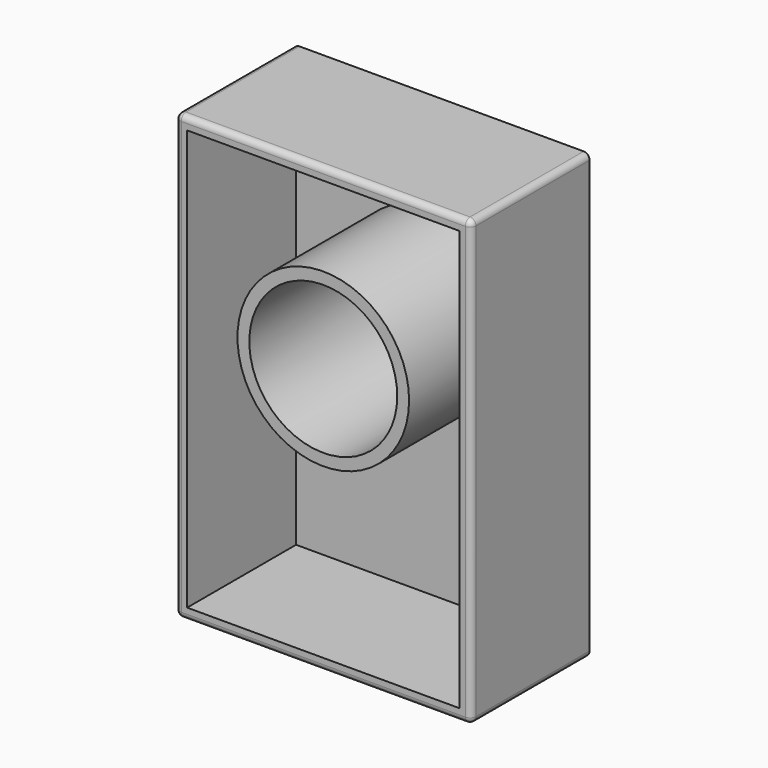
from build123d import *

# Parameters (mm, degrees)
F0_W     = 254
F0_H     = 381
F1_DEPTH = 127
F2_R     = 63.5
F3_DEPTH = 127.001
F4_T     = -10.16
F5_R     = 5.08


with BuildPart() as f1:
    # F0 (on Front) → F1 (new body)
    with BuildSketch(Plane.XZ):
        Rectangle(F0_W, F0_H)
    extrude(amount=F1_DEPTH)

    # F2 (on face) → F3 (cut, through all)
    with BuildSketch(Plane.XZ.offset(127)):
        with Locations((0, 38.1)):
            Circle(F2_R)
    extrude(amount=-F3_DEPTH, mode=Mode.SUBTRACT)

    # F4
    f4_openings = [f1.faces().sort_by_distance(p)[0] for p in [
        (0, -127, -185.92095),
    ]]
    offset(amount=F4_T, openings=f4_openings)

    # F5
    f5_edges = [f1.edges().sort_by_distance(p)[0] for p in [
        (-127, -127, 0),
        (0, -127, 190.5),
        (127, -127, 0),
        (0, -127, -190.5),
        (127, -63.5, -190.5),
        (127, -63.5, 190.5),
        (-127, -63.5, 190.5),
        (-127, -63.5, -190.5),
    ]]
    fillet(f5_edges, radius=F5_R)


solid = f1.part
